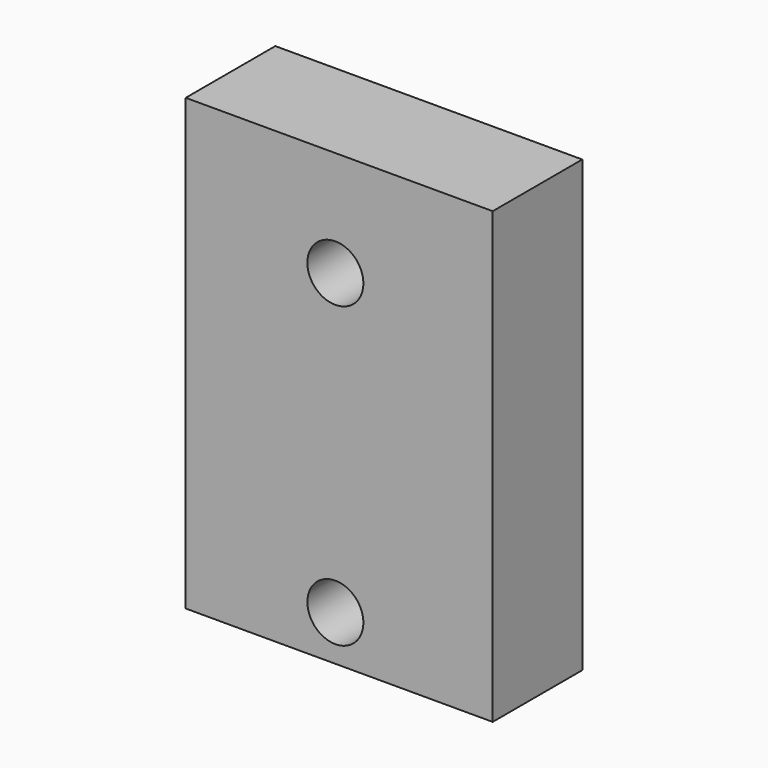
from build123d import *

# Parameters (mm, degrees)
F0_W     = 27.413413
F0_H     = 40.152527
F1_DEPTH = 10
F3_D     = 5


with BuildPart() as f1:
    # F0 (on Front) → F1 (new body)
    with BuildSketch(Plane.XZ):
        with Locations((13.706706, 20.076263)):
            Rectangle(F0_W, F0_H)
    extrude(amount=F1_DEPTH)

    # F3 (through all)
    with Locations(Plane.XZ.offset(10)):
        with Locations((13.36392, 4.042168), (13.36392, 30.715918)):
            Hole(F3_D / 2)


solid = f1.part
